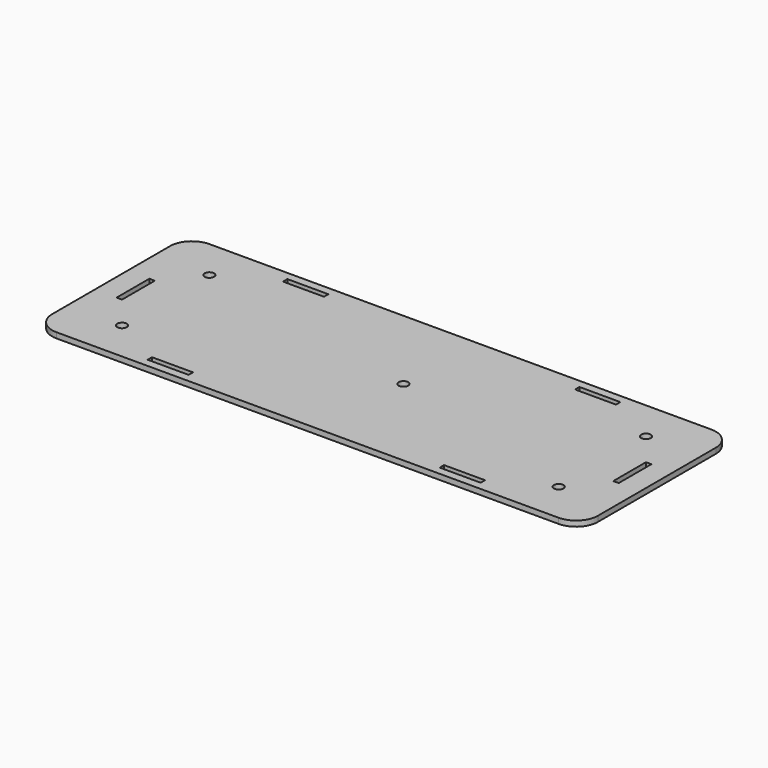
from build123d import *

# Parameters (mm, degrees)
SKETCH001_W  = 200
SKETCH001_H  = 70
PAD_DEPTH    = 2
FILLET_R     = 8
SKETCH_R     = 1.75
SKETCH_W     = 15
SKETCH_H     = 2
SKETCH_W_2   = 2
SKETCH_H_2   = 15
POCKET_DEPTH = 2


with BuildPart() as part:
    # Sketch001 → Pad (new body)
    with BuildSketch(Plane.XY):
        with Locations((100, 35)):
            Rectangle(SKETCH001_W, SKETCH001_H)
    extrude(amount=PAD_DEPTH)

    # Fillet
    fillet_edges = [part.edges().sort_by_distance(p)[0] for p in [
        (0, 70, 1),
        (200, 70, 1),
        (0, 0, 1),
        (200, 0, 1),
    ]]
    fillet(fillet_edges, radius=FILLET_R)

    # Sketch → Pocket (cut)
    with BuildSketch(Plane.XY):
        with Locations((20, 55)):
            Circle(SKETCH_R)
        with Locations((20, 15)):
            Circle(SKETCH_R)
        with Locations((180, 55)):
            Circle(SKETCH_R)
        with Locations((180, 15)):
            Circle(SKETCH_R)
        with Locations((105.5, 37)):
            Circle(SKETCH_R)
        with Locations((46.5, 66)):
            Rectangle(SKETCH_W, SKETCH_H)
        with Locations((46.5, 4)):
            Rectangle(SKETCH_W, SKETCH_H)
        with Locations((153.5, 66)):
            Rectangle(SKETCH_W, SKETCH_H)
        with Locations((153.5, 4)):
            Rectangle(SKETCH_W, SKETCH_H)
        with Locations((9, 35)):
            Rectangle(SKETCH_W_2, SKETCH_H_2)
        with Locations((191, 35)):
            Rectangle(SKETCH_W_2, SKETCH_H_2)
    extrude(amount=POCKET_DEPTH, mode=Mode.SUBTRACT)


solid = part.part
